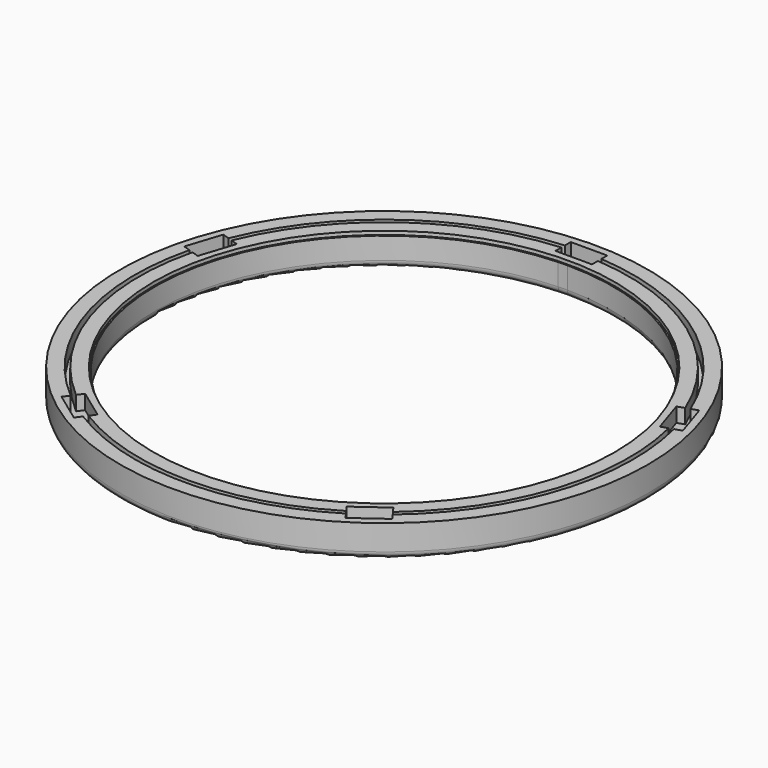
from build123d import *

# Parameters (mm, degrees)
F1_FACE1_R   = 80.9498
F1_FACE1_R_2 = 5.08
F3_DEPTH     = 25.4
F4_R         = 2.54
F5_W         = 12.827
F5_H         = 6.731
F6_DEPTH     = 5.08


with BuildPart() as f1:
    # F0 (on Front) → F1 (revolve)
    with BuildSketch(Plane.XZ):
        Polygon((80.9498, 0), (5.08, 0), (5.08, -10.16), (92.6526099873, -10.16), (92.6526099873, 1.27), (87.5726099873, 1.27), (87.5726099873, -3.81), (86.0298, -3.81), (86.0298, 1.27), (80.9498, 1.27), align=None)
    revolve(axis=Axis((0, 0, -1.5273375125), (0, 0, -1)))

    # F2 (on face) + F1_face1 (on face) → F3 (cut)
    with BuildSketch(Plane(origin=(0, 0, -10.16), x_dir=(1, 0, 0), z_dir=(0, 0, -1))):
        with BuildLine():
            ThreePointArc((80.3791177001, -3.175), (56.8809422709, 56.8809422709), (-3.175, 80.3791177001))
            ThreePointArc((-3.175, 80.3791177001), (-56.8809422709, 56.8809422709), (-80.3791177001, 3.175))
            ThreePointArc((-80.3791177001, 3.175), (-59.0816832218, -54.5915551612), (-3.175, -80.3791177001))
            ThreePointArc((-3.175, -80.3791177001), (-1.5878093455, -80.4261278984), (0, -80.4418))
            ThreePointArc((0, -80.4418), (55.7471096661, -57.9926111769), (80.3791177001, -3.175))
        make_face()
    with BuildSketch(Plane.XY):
        Circle(F1_FACE1_R)
        Circle(F1_FACE1_R_2, mode=Mode.SUBTRACT)
    extrude(amount=-F3_DEPTH, dir=(0, 0, -1), mode=Mode.SUBTRACT)

    # F4
    f4_edges = [f1.edges().sort_by_distance(p)[0] for p in [
        (3.175, 80.379118, -10.16),
        (-92.65261, 0, -10.16),
    ]]
    fillet(f4_edges, radius=F4_R)

    # F5 (on face) → F6 (cut)
    with BuildSketch(Plane.XY.offset(1.27)):
        with Locations((0, 86.5632)):
            Rectangle(F5_W, F5_H)
        Polygon((-83.5453956435, 33.8890975493), (-87.5091566304, 21.6898956148), (-81.1075952192, 19.6099022256), (-77.1438342323, 31.8091041602), align=None)
        Polygon((-58.0473941113, -68.9840858665), (-47.6701331244, -76.5236072976), (-43.7137505912, -71.0781139085), (-54.0910115781, -63.5385924773), align=None)
        Polygon((47.6701331244, -76.5236072976), (58.0473941113, -68.9840858665), (54.0910115781, -63.5385924773), (43.7137505912, -71.0781139085), align=None)
        Polygon((87.5091566304, 21.6898956148), (83.5453956435, 33.8890975493), (77.1438342323, 31.8091041602), (81.1075952192, 19.6099022256), align=None)
    extrude(amount=-F6_DEPTH, mode=Mode.SUBTRACT)


with BuildPart() as f7_1:
    # F7: copy of F1
    add(f1.part)


solid = f1.part
